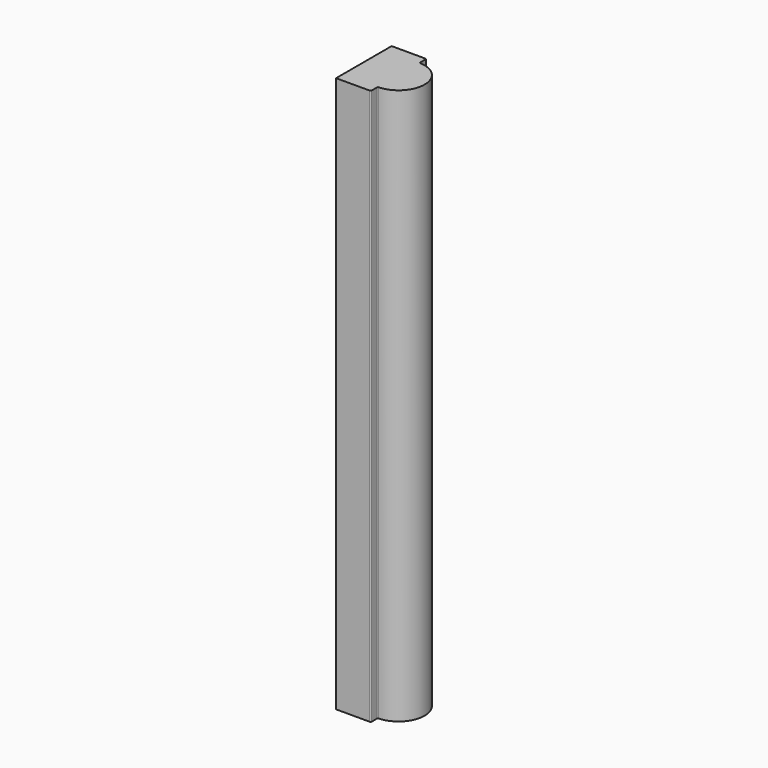
from build123d import *

# Parameters (mm, degrees)
F1_DEPTH = 203.2
F2_R     = 0.402836
F3_R     = 0.241421


with BuildPart() as f1:
    # F0 (on Top) → F1 (new body)
    with BuildSketch(Plane.XY):
        with BuildLine():
            Line((0, -12.7), (0, -9.525))
            ThreePointArc((0, -9.525), (9.525, 0), (0, 9.525))
            Line((0, 9.525), (0, 12.7))
            Line((0, 12.7), (-12.7, 12.7))
            Line((-12.7, 12.7), (-12.7, -12.7))
            Line((-12.7, -12.7), (0, -12.7))
        make_face()
    extrude(amount=F1_DEPTH)

    # F2
    f2_edges = [f1.edges().sort_by_distance(p)[0] for p in [
        (0, 12.7, 101.6),
        (0, -12.7, 101.6),
    ]]
    fillet(f2_edges, radius=F2_R)

    # F3
    f3_edges = [f1.edges().sort_by_distance(p)[0] for p in [
        (0, 9.525, 101.6),
        (0, -9.525, 101.6),
    ]]
    fillet(f3_edges, radius=F3_R)


solid = f1.part
